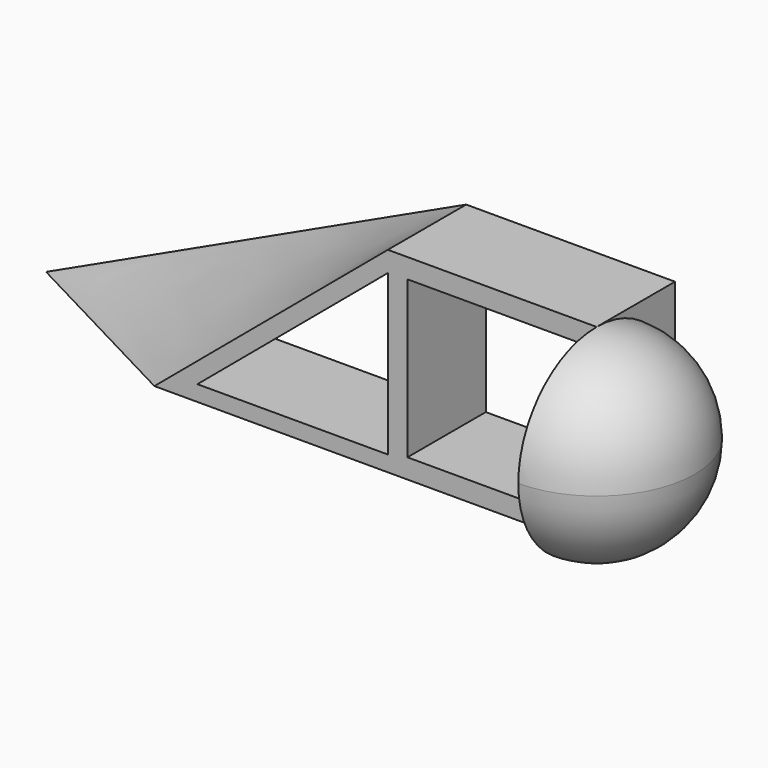
from build123d import *

# Parameters (mm, degrees)
F0_W          = 53.2894550107
F0_H          = 50
F0_W_2        = 43.2894550107
F0_H_2        = 40
F1_DEPTH      = 25
F3_ANGLE_BACK = 90
F3_ANGLE      = 180


with BuildPart() as f1:
    # F0 (on Front) → F1 (new body)
    with BuildSketch(Plane.XZ):
        with Locations((-26.6447275054, 25)):
            Rectangle(F0_W, F0_H)
        with Locations((-26.6447275054, 25)):
            Rectangle(F0_W_2, F0_H_2, mode=Mode.SUBTRACT)
    extrude(amount=F1_DEPTH)

    # F2 (on face) → F3 (revolve)
    with BuildSketch(Plane.XZ.offset(25), mode=Mode.PRIVATE) as f3_sk:
        with BuildLine():
            ThreePointArc((0, 0), (17.6776695297, 7.3223304703), (25, 25))
            ThreePointArc((25, 25), (17.6776695297, 42.6776695297), (0, 50))
            Line((0, 50), (0, 45))
            ThreePointArc((0, 45), (14.1421356237, 39.1421356237), (20, 25))
            ThreePointArc((20, 25), (14.1421356237, 10.8578643763), (0, 5))
            Line((0, 5), (0, 0))
        make_face()
    revolve(f3_sk.sketch.rotate(Axis((0, -25, 25), (0, 0, -1)), -F3_ANGLE_BACK), axis=Axis((0, -25, 25), (0, 0, -1)), revolution_arc=F3_ANGLE)

    # F2 (on face) → F5 section 0
    with BuildSketch(Plane.XZ.offset(25)):
        Polygon((-53.2894550107, 44.7783708427), (-53.2894550107, 50), (-112.8771346405, 0), (-53.2894550107, 0), (-53.2894550107, 4), (-101.8872249626, 4), align=None)
    # F4 (on face) → F5 section 1
    with BuildSketch(Plane(origin=(0, 0, 0), x_dir=(-1, 0, 0), z_dir=(0, 1, 0))):
        Polygon((160.5148010362, 0), (53.2894550107, 50), (53.2894550107, 45.5864883242), (142.4719670216, 4), (53.2894550107, 4), (53.2894550107, 0), align=None)
    loft()


solid = f1.part
